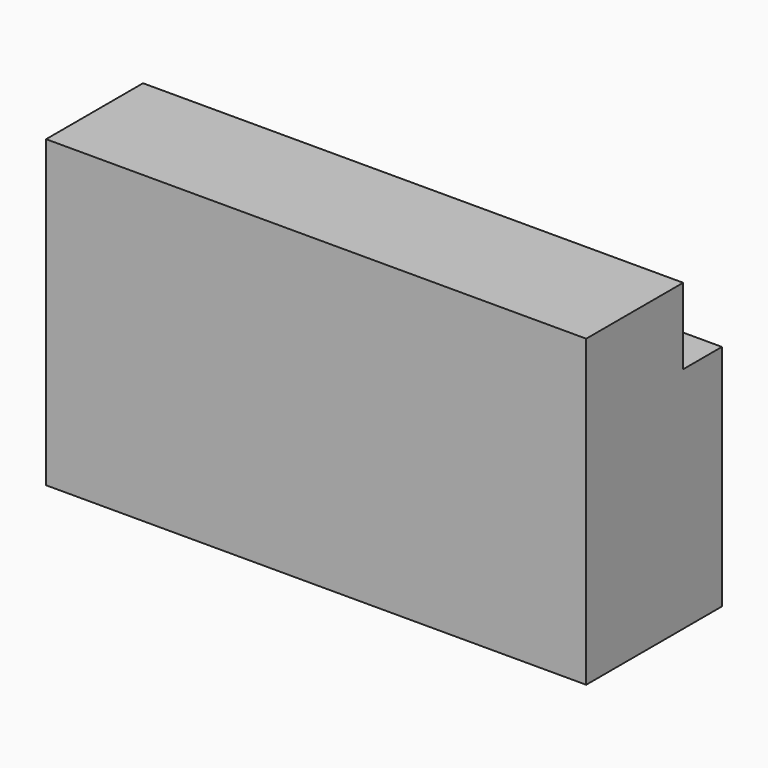
from build123d import *

# Parameters (mm, degrees)
F0_W     = 444.5
F0_H     = 279.4
F1_DEPTH = 1981.2


with BuildPart() as f1:
    # F0 (on Right) → F1 (new body)
    with BuildSketch(Plane.YZ):
        with Locations((-400.05, 977.9)):
            Rectangle(F0_W, F0_H)
        Polygon((-622.3, 0), (0, 0), (0, 838.2), (-177.8, 838.2), (-622.3, 838.2), align=None)
    extrude(amount=F1_DEPTH)


solid = f1.part
